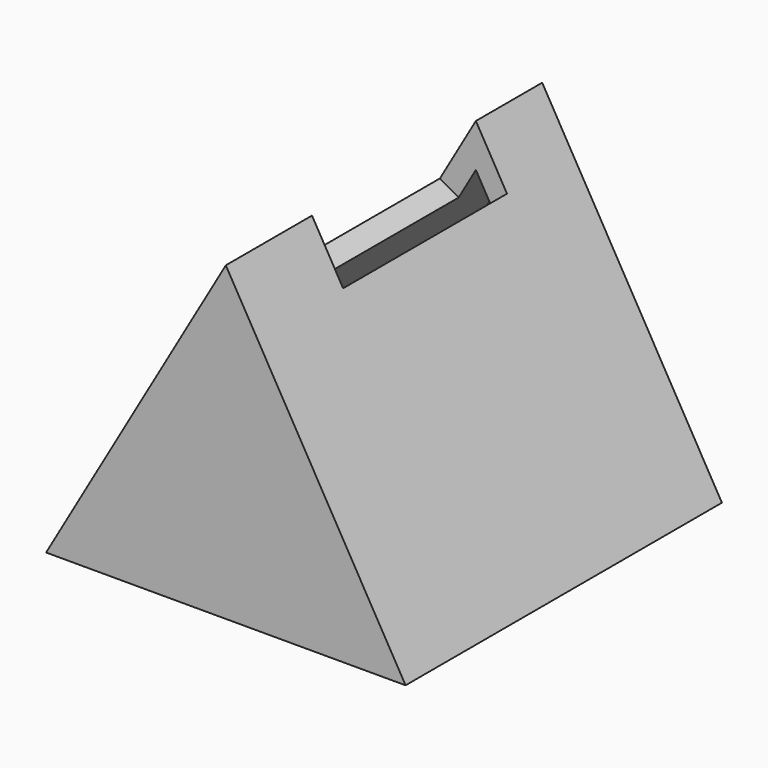
from build123d import *

# Parameters (mm, degrees)
F1_DEPTH = 100
F3_DEPTH = 5
F5_DEPTH = 5
F6_W     = 56.985039264
F6_H     = 20
F7_DEPTH = 15


with BuildPart() as f1:
    # F0 (on Front) → F1 (new body)
    with BuildSketch(Plane.XZ):
        Polygon((0, 86.6025403784), (-50, 0), (50, 0), align=None)
        Polygon((40, 5.3205080757), (-40, 5.3205080757), (0, 74.6025403784), align=None, mode=Mode.SUBTRACT)
    extrude(amount=F1_DEPTH)

    # F2 (on face) → F3 (join)
    with BuildSketch(Plane.XZ.offset(100)):
        Polygon((-50, 0), (50, 0), (0, 86.6025403784), align=None)
        Polygon((0, 74.6025403784), (40, 5.3205080757), (-40, 5.3205080757), align=None, mode=Mode.SUBTRACT)
        Polygon((-40, 5.3205080757), (40, 5.3205080757), (0, 74.6025403784), align=None)
    extrude(amount=F3_DEPTH)

    # F4 (on face) → F5 (join)
    with BuildSketch(Plane(origin=(0, 0, 0), x_dir=(-1, 0, 0), z_dir=(0, 1, 0))):
        Polygon((0, 86.6025403784), (-50, 0), (50, 0), align=None)
        Polygon((0, 74.6025403784), (40, 5.3205080757), (-40, 5.3205080757), align=None, mode=Mode.SUBTRACT)
        Polygon((-40, 5.3205080757), (40, 5.3205080757), (0, 74.6025403784), align=None)
    extrude(amount=F5_DEPTH)

    # F6 (on face) → F7 (cut)
    with BuildSketch(Plane(origin=(-37.5, 0, 21.6506350946), x_dir=(0, -1, 0), z_dir=(-0.8660254038, 0, 0.5))):
        with Locations((46.5483199805, 65)):
            Rectangle(F6_W, F6_H)
    extrude(amount=-F7_DEPTH, mode=Mode.SUBTRACT)


solid = f1.part
